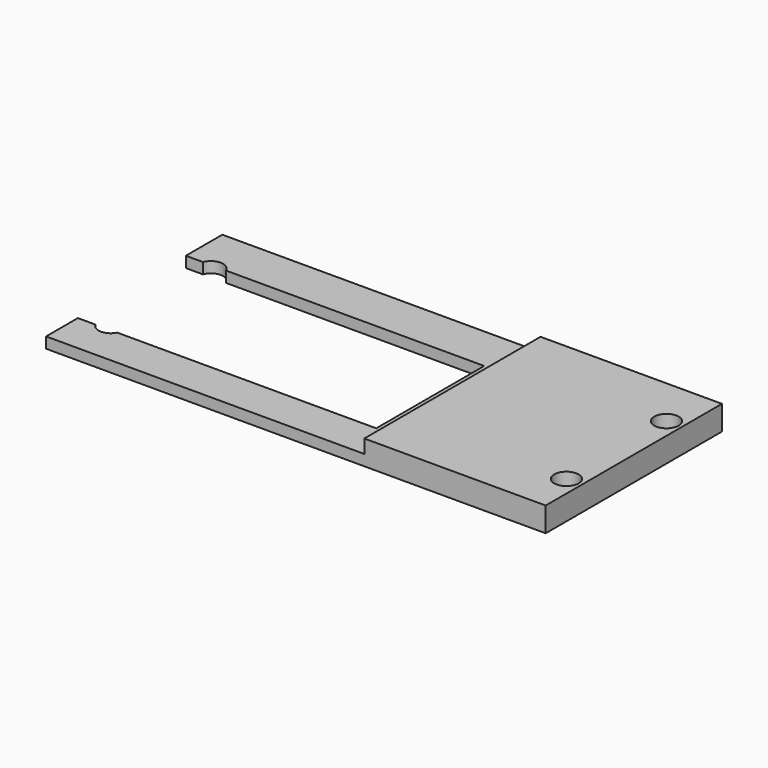
from build123d import *

# Parameters (mm, degrees)
SKETCH_W     = 36.74
SKETCH_H     = 16.2
SKETCH_R     = 0.9
PAD_DEPTH    = 0.8
SKETCH001_W  = 13.34
SKETCH001_H  = 16.2
SKETCH001_R  = 0.9
PAD001_DEPTH = 1
SKETCH002_W  = 22.987506
SKETCH002_H  = 9.9264
POCKET_DEPTH = 0.801


with BuildPart() as part:
    # Sketch → Pad (new body)
    with BuildSketch(Plane.XY):
        with Locations((-15.4, 34.77)):
            Rectangle(SKETCH_W, SKETCH_H)
        with Locations((1.83, 39.2)):
            Circle(SKETCH_R, mode=Mode.SUBTRACT)
        with Locations((1.83, 30)):
            Circle(SKETCH_R, mode=Mode.SUBTRACT)
        with Locations((-31.67, 39.2)):
            Circle(SKETCH_R, mode=Mode.SUBTRACT)
        with Locations((-31.67, 30)):
            Circle(SKETCH_R, mode=Mode.SUBTRACT)
    extrude(amount=PAD_DEPTH)

    # Sketch001 (on Face10 of Pad) → Pad001 (join)
    with BuildSketch(Plane.XY.offset(0.8)):
        with Locations((-3.7, 34.77)):
            Rectangle(SKETCH001_W, SKETCH001_H)
        with Locations((1.83, 39.2)):
            Circle(SKETCH001_R, mode=Mode.SUBTRACT)
        with Locations((1.83, 30)):
            Circle(SKETCH001_R, mode=Mode.SUBTRACT)
    extrude(amount=PAD001_DEPTH)

    # Sketch002 (on Face3 of Pad001) → Pocket (cut, through all)
    with BuildSketch(Plane.XY.offset(0.8)):
        with Locations((-23.321447, 34.5539)):
            Rectangle(SKETCH002_W, SKETCH002_H)
    extrude(amount=-POCKET_DEPTH, mode=Mode.SUBTRACT)


solid = part.part
